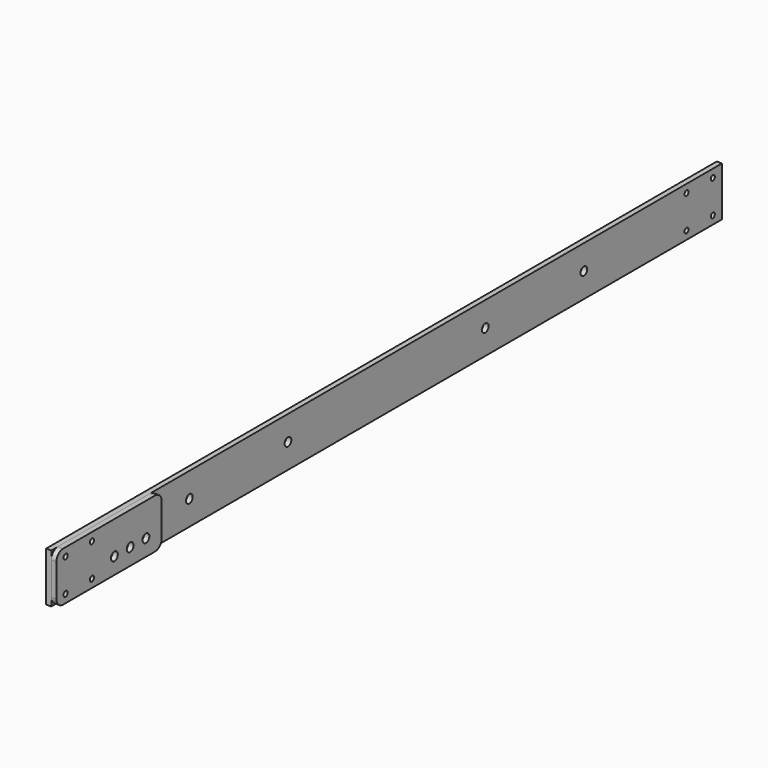
from build123d import *

# Parameters (mm, degrees)
F0_W     = 3.175
F0_H     = 30
F1_DEPTH = 255
F2_R     = 1.55
F2_R_2   = 2.55
F3_DEPTH = 25
F5_R     = 1.5875
F5_R_2   = 2.6
F6_DEPTH = 3.175


with BuildPart() as f1:
    # F0 (on Front) → F1 (new body)
    with BuildSketch(Plane.XZ):
        with Locations((-34.100204, 49.014178)):
            Rectangle(F0_W, F0_H)
    extrude(amount=F1_DEPTH)

    # F2 (on face) → F3 (cut)
    with BuildSketch(Plane.YZ.offset(-32.512704)):
        with Locations((-248.080885, 59.014178)):
            Circle(F2_R)
        with Locations((-228.080885, 59.014178)):
            Circle(F2_R)
        with Locations((-228.080885, 39.014178)):
            Circle(F2_R)
        with Locations((-248.080885, 39.014178)):
            Circle(F2_R)
        with Locations((-150, 49.014178)):
            Circle(F2_R_2)
        with Locations((-75, 49.014178)):
            Circle(F2_R_2)
    extrude(amount=-F3_DEPTH, mode=Mode.SUBTRACT)

    # F4: F1 across face


with BuildPart() as f1_1:
    add(f1.part)
    add(f1.part.mirror(Plane(origin=(-34.100204, 0, 49.014178), x_dir=(1, 0, 0), z_dir=(0, 1, 0))))


with BuildPart() as f6:
    # F5 (on face) → F6 (new body)
    with BuildSketch(Plane.YZ.offset(-32.512704)):
        with BuildLine():
            Line((-180, 64.014178), (-250, 64.014178))
            ThreePointArc((-250, 64.014178), (-253.535534, 62.549712), (-255, 59.014178))
            Line((-255, 59.014178), (-255, 39.014178))
            ThreePointArc((-255, 39.014178), (-253.535534, 35.478644), (-250, 34.014178))
            Line((-250, 34.014178), (-180, 34.014178))
            ThreePointArc((-180, 34.014178), (-176.464466, 35.478644), (-175, 39.014178))
            Line((-175, 39.014178), (-175, 59.014178))
            ThreePointArc((-175, 59.014178), (-176.464466, 62.549712), (-180, 64.014178))
        make_face()
        with Locations((-248.080885, 39.014178)):
            Circle(F5_R, mode=Mode.SUBTRACT)
        with Locations((-228.080885, 39.014178)):
            Circle(F5_R, mode=Mode.SUBTRACT)
        with Locations((-211, 44.014178)):
            Circle(F5_R_2, mode=Mode.SUBTRACT)
        with Locations((-199, 44.014178)):
            Circle(F5_R_2, mode=Mode.SUBTRACT)
        with Locations((-187, 44.014178)):
            Circle(F5_R_2, mode=Mode.SUBTRACT)
        with Locations((-248.080885, 59.014178)):
            Circle(F5_R, mode=Mode.SUBTRACT)
        with Locations((-228.080885, 59.014178)):
            Circle(F5_R, mode=Mode.SUBTRACT)
    extrude(amount=F6_DEPTH)


solid = Compound([f1_1.part, f6.part])
